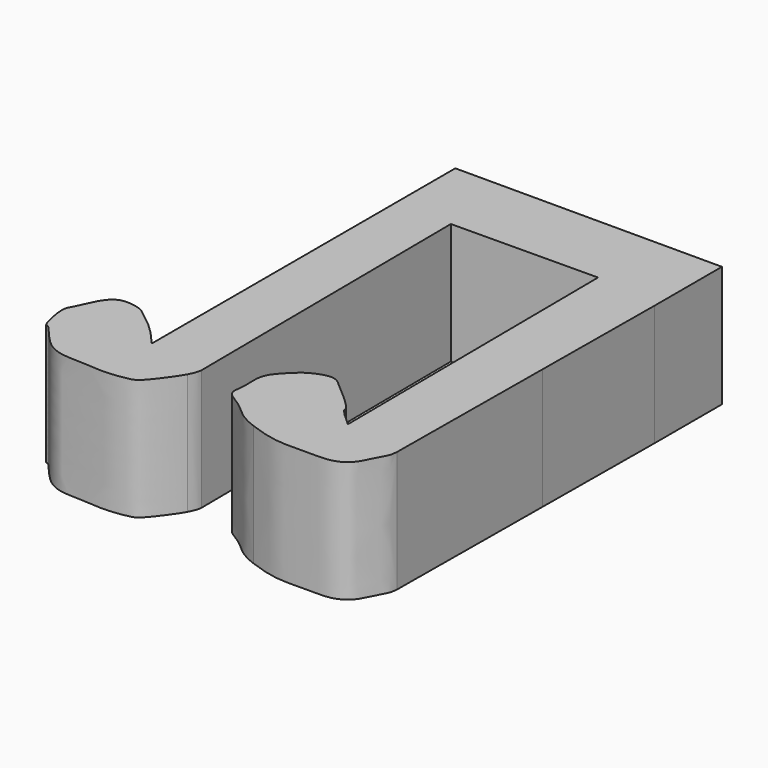
from build123d import *

# Parameters (mm, degrees)
F1_DEPTH = 25.4


with BuildPart() as f1:
    # F0 (on Top) → F1 (new body)
    with BuildSketch(Plane.XY):
        with BuildLine():
            Line((31.7083224654, 52.2731989622), (-24.2160689086, 52.2731989622))
            Line((-24.2160689086, 52.2731989622), (-24.2160689086, 6.3467985019))
            Line((-24.2160689086, 6.3467985019), (-24.2160689086, -27.311399579))
            add(Edge.make_bspline(
                [(-24.2160689086, -27.311399579), (-25.5777280404, -25.7270746992), (-28.142734514, -22.742624716), (-32.5569487136, -19.5675526848), (-33.1336974669, -18.9361536487), (-38.2541469689, -17.5470784953), (-40.9345393416, -21.4982105911), (-42.2389065008, -25.1384538531), (-43.7140167388, -26.8134097147), (-42.0261621508, -33.4710904068), (-41.3946333183, -32.5868492625), (-37.6610160692, -37.9359450768), (-33.4695999231, -39.795457875), (-28.7994079743, -39.6067684532), (-24.3840833672, -40.2303095696), (-19.536321441, -39.5549414882), (-17.6030215049, -38.9510561202), (-14.8132864587, -35.2637470679), (-13.363478844, -33.2198384817), (-12.8240631893, -32.2306714952)],
                knots=[0, 0, 0, 0, 0.0734304563, 0.138110108, 0.166131992, 0.2271879424, 0.2879817346, 0.3438222541, 0.3892762211, 0.4593717849, 0.4741291836, 0.5432402179, 0.6079636291, 0.6688627055, 0.7315214751, 0.7943243603, 0.8350500024, 0.8959490757, 0.9519927934, 0.9519927934, 0.9519927934, 0.9519927934], degree=3))
            add(Edge.make_bspline(
                [(-12.8240631893, -32.2306714952), (-12.3619982182, -31.3833482649), (-12.013954121, -30.5289490986), (-11.9275275417, -29.6415798366)],
                knots=[0.9519927934, 0.9519927934, 0.9519927934, 0.9519927934, 1, 1, 1, 1], degree=3))
            Line((-11.9275275417, -29.6415798366), (-12.0915734616, -8.7257151652))
            Line((-12.0915734616, -8.7257151652), (-12.2097891992, 6.3467985019))
            Line((-12.2097891992, 6.3467985019), (-12.4453689824, 36.3832350573))
            Line((-12.4453689824, 36.3832350573), (18.2431302799, 36.6239290554))
            Line((18.2431302799, 36.6239290554), (18.4787100632, 6.5874925))
            Line((18.4787100632, 6.5874925), (18.5988135959, -8.7257151652))
            Line((18.5988135959, -8.7257151652), (18.7628595158, -29.6415798366))
            add(Edge.make_bspline(
                [(18.7628595158, -29.6415798366), (17.1233836436, -28.1858155553), (14.8286920733, -26.1482558197), (15.2705240289, -25.0738479827), (9.4274894925, -20.1875456866), (6.7134745152, -17.497884325), (1.9250535154, -19.4346597195), (0.0806479302, -21.2963154344), (-3.545263022, -24.7858964348), (-2.6370686765, -29.5407719744), (-3.7697805637, -33.1070692956), (0.3170560072, -34.9299966136), (3.3134105588, -38.1614106075), (5.8073374822, -39.2477390451), (7.1119456552, -39.7390425205)],
                knots=[0, 0, 0, 0, 0.0555755001, 0.0777862204, 0.1433868728, 0.1921847487, 0.2433221324, 0.2847229201, 0.3370001815, 0.3900315393, 0.433298124, 0.4810673929, 0.5331522215, 0.5825666243, 0.5825666243, 0.5825666243, 0.5825666243], degree=3))
            add(Edge.make_bspline(
                [(7.1119456552, -39.7390425205), (8.4620429283, -40.247476774), (11.2380550615, -41.1457172386), (14.8251210459, -41.6609630531), (18.7494264789, -41.5218089761), (21.83525227, -41.5691921284), (24.7323734722, -41.5087031017), (27.4908925092, -40.1664978925), (28.9084722584, -37.9974624596), (30.0871179861, -35.3390525607), (31.0422313899, -33.8594934826), (31.1418920473, -32.7646848105), (31.1905033886, -32.2306714952)],
                knots=[0.5825666243, 0.5825666243, 0.5825666243, 0.5825666243, 0.6337040093, 0.6806739008, 0.7290474016, 0.7723139798, 0.8138239017, 0.8555866859, 0.8950835, 0.9368463022, 0.969195608, 1, 1, 1, 1], degree=3))
            Line((31.1905033886, -32.2306714952), (31.4835307246, 5.5698063531))
            Line((31.4835307246, 5.5698063531), (31.7083224654, 34.5679037273))
            Line((31.7083224654, 34.5679037273), (31.7083224654, 52.2731989622))
        make_face()
    extrude(amount=F1_DEPTH)


solid = f1.part
